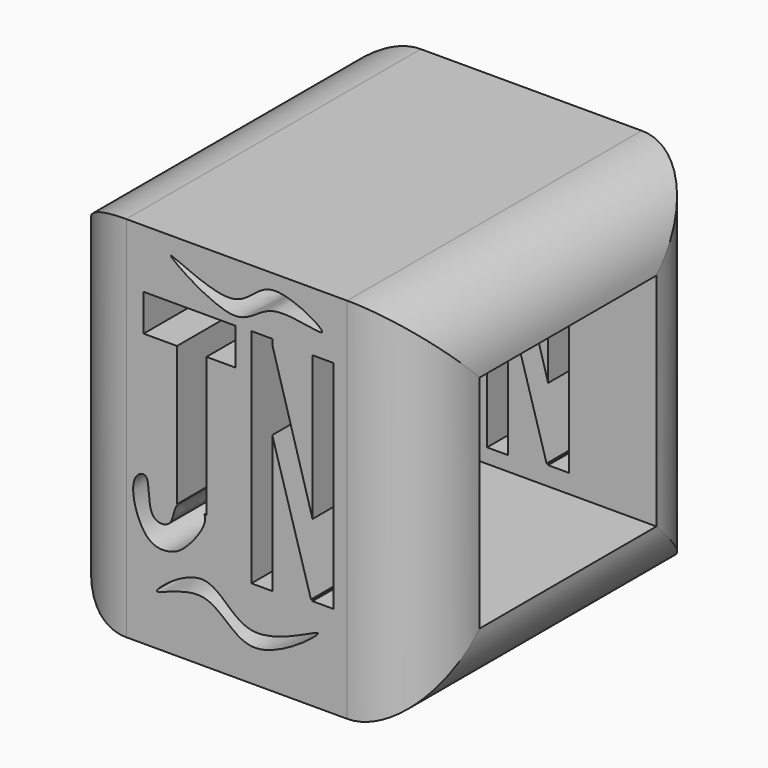
from build123d import *

# Parameters (mm, degrees)
F0_W      = 25.4
F0_H      = 25.4
F1_DEPTH  = 25.4
F2_R      = 5.08
F3_DEPTH  = 25.401
F4_W      = 6.35
F4_H      = 2.54
F6_DEPTH  = 25.4
F5_W      = 2.032
F5_H      = 9.6063148866
F7_DEPTH  = 25.4
F12_DEPTH = 25.4
F11_W     = 1.4364495873
F11_H     = 14.9390716106
F13_DEPTH = 25.4
F9_W      = 1.4364495873
F9_H      = 15.3221283108
F14_DEPTH = 25.4
F15_DEPTH = 25.4
F17_DEPTH = 25.4
F19_DEPTH = 25.4


with BuildPart() as f1:
    # F0 (on Front) → F1 (new body)
    with BuildSketch(Plane.XZ):
        with Locations((-37.1366348118, 30.5302856235)):
            Rectangle(F0_W, F0_H)
    extrude(amount=F1_DEPTH)

    # F2
    f2_edges = [f1.edges().sort_by_distance(p)[0] for p in [
        (-49.836635, -12.7, 43.230286),
        (-49.836635, -12.7, 17.830286),
        (-49.836635, 0, 30.530286),
        (-49.836635, -25.4, 30.530286),
        (-24.436635, -12.7, 17.830286),
        (-24.436635, -12.7, 43.230286),
        (-24.436635, 0, 30.530286),
        (-24.436635, -25.4, 30.530286),
    ]]
    fillet(f2_edges, radius=F2_R)

    # F3 (cut, through all): a face of the model
    f3_faces = [f1.faces().sort_by_distance(p)[0] for p in [
        (-49.8366348118, -12.7, 30.5302856235),
    ]]
    extrude(f3_faces, amount=-F3_DEPTH, mode=Mode.SUBTRACT)

    # F4 (on face) → F6 (cut)
    with BuildSketch(Plane.XZ.offset(25.4)):
        with Locations((-40.3840877116, 37.9312783699)):
            Rectangle(F4_W, F4_H)
    extrude(amount=-F6_DEPTH, mode=Mode.SUBTRACT)

    # F5 (on face) → F7 (cut)
    with BuildSketch(Plane.XZ.offset(25.4)):
        with Locations((-40.240444243, 31.8581209266)):
            Rectangle(F5_W, F5_H)
    extrude(amount=-F7_DEPTH, mode=Mode.SUBTRACT)

    # F10 (on face) → F12 (cut)
    with BuildSketch(Plane.XZ.offset(25.4)):
        Polygon((-30.4981054399, 24.2704920713), (-34.7671631767, 39.164758822), (-35.9055778351, 37.5520019547), (-32.0159916511, 24.2704920713), align=None)
    extrude(amount=-F12_DEPTH, mode=Mode.SUBTRACT)

    # F11 (on face) → F13 (cut)
    with BuildSketch(Plane.XZ.offset(25.4)):
        with Locations((-31.1908125877, 31.6697424278)):
            Rectangle(F11_W, F11_H)
    extrude(amount=-F13_DEPTH, mode=Mode.SUBTRACT)

    # F9 (on face) → F14 (cut)
    with BuildSketch(Plane.XZ.offset(25.4)):
        with Locations((-35.4043990374, 31.5739801154)):
            Rectangle(F9_W, F9_H)
    extrude(amount=-F14_DEPTH, mode=Mode.SUBTRACT)

    # F8 (on face) → F15 (cut)
    with BuildSketch(Plane.XZ.offset(25.4)):
        with BuildLine():
            add(Edge.make_bspline(
                [(-39.3785759807, 27.0731057972), (-39.6297133803, 27.5101075995), (-41.6305791857, 27.5766352736), (-41.3633630788, 25.4469751003), (-43.468537695, 25.4288154055), (-42.9514008661, 28.5185136783), (-44.7736072163, 27.70965453), (-43.6695125766, 23.9091346935), (-41.6754810465, 23.9066994915), (-40.5468704729, 24.552377368), (-39.0721863535, 26.5399601187), (-39.3785759807, 27.0731057972)],
                knots=[0, 0, 0, 0, 0.1096981949, 0.2148136782, 0.3044679313, 0.4298127733, 0.507081077, 0.6603031975, 0.765226296, 0.8661673288, 1, 1, 1, 1], degree=3))
        make_face()
    extrude(amount=-F15_DEPTH, mode=Mode.SUBTRACT)

    # F16 (on face) → F17 (cut)
    with BuildSketch(Plane.XZ.offset(25.4)):
        with BuildLine():
            add(Edge.make_bspline(
                [(-31.5259844065, 22.3807040602), (-31.5961972832, 22.538814454), (-36.8006626146, 19.2743049977), (-38.8164037698, 24.7307012119), (-44.449538713, 20.0697445949), (-38.7645740046, 23.3312898304), (-36.6253237865, 18.1595639979), (-31.4536733074, 22.2178687389), (-31.5259844065, 22.3807040602)],
                knots=[0, 0, 0, 0, 0.1774918016, 0.3461506783, 0.501247817, 0.6477456499, 0.8172040822, 1, 1, 1, 1], degree=3))
        make_face()
    extrude(amount=-F17_DEPTH, mode=Mode.SUBTRACT)

    # F18 (on face) → F19 (cut)
    with BuildSketch(Plane.XZ.offset(25.4)):
        with BuildLine():
            add(Edge.make_bspline(
                [(-31.2386956066, 40.7672561705), (-31.1922379341, 41.0246157697), (-35.3272636294, 43.4766944095), (-36.782701932, 39.3858975337), (-44.3292215264, 43.6919919205), (-36.7853449169, 38.393730281), (-35.2210721649, 41.817129548), (-31.2826325627, 40.5238604768), (-31.2386956066, 40.7672561705)],
                knots=[0, 0, 0, 0, 0.1650417986, 0.3219961829, 0.5012557315, 0.6897101732, 0.8439130959, 1, 1, 1, 1], degree=3))
        make_face()
    extrude(amount=-F19_DEPTH, mode=Mode.SUBTRACT)


solid = f1.part
